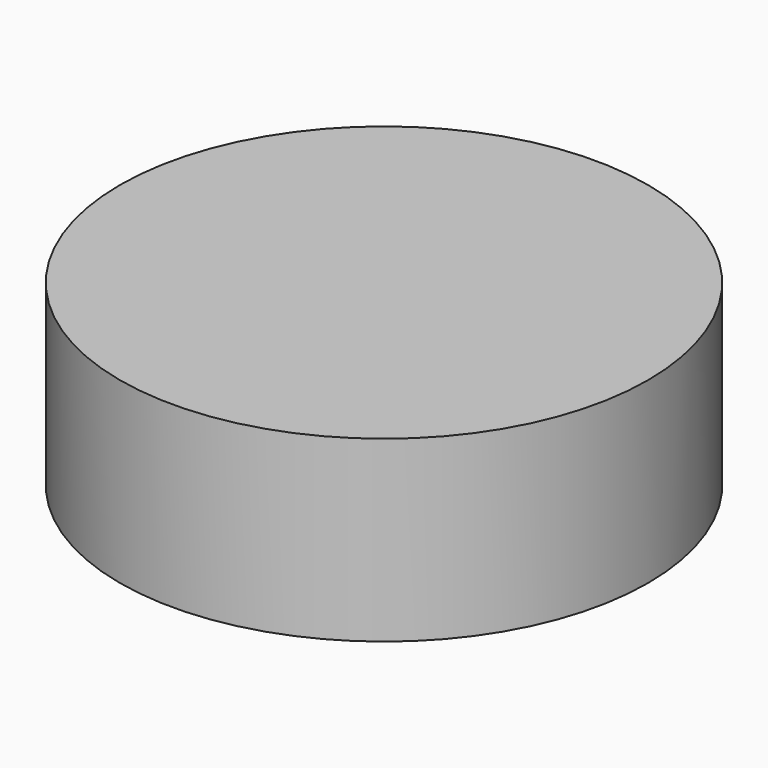
from build123d import *

# Parameters (mm, degrees)
CYLINDER_R     = 22.18055
CYLINDER_DEPTH = 15


with BuildPart() as part:
    # Cylinder → Cylinder (new body)
    with BuildSketch(Plane.XY.offset(-2.5)):
        Circle(CYLINDER_R)
    extrude(amount=CYLINDER_DEPTH)


solid = part.part
